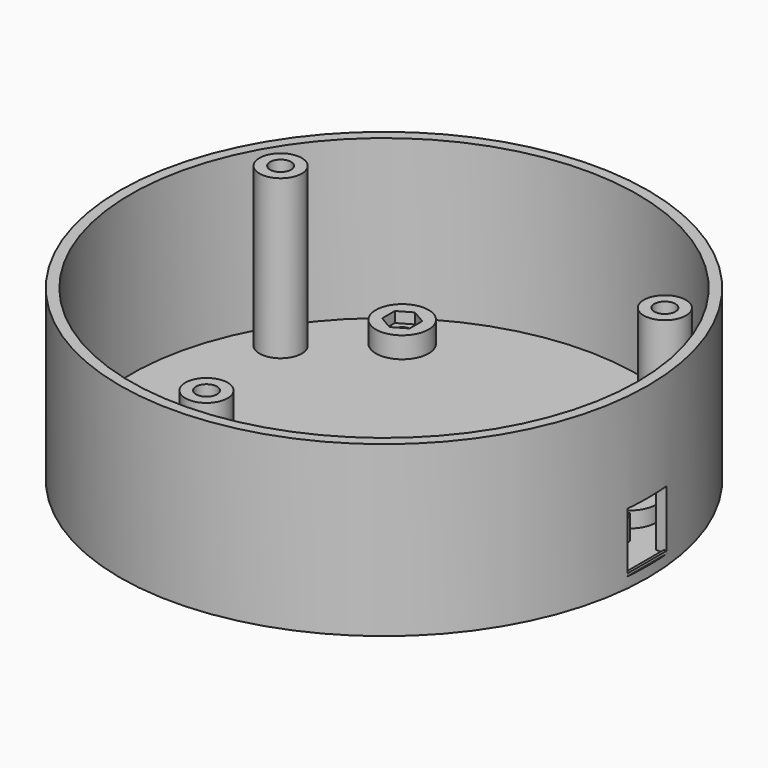
from build123d import *

# Parameters (mm, degrees)
SKETCH_R        = 50
PAD_DEPTH       = 32
SKETCH001_R     = 48
POCKET_DEPTH    = 30
SKETCH002_R     = 4
PAD001_DEPTH    = 30
SKETCH005_W     = 9.3
SKETCH005_H     = 11.3
POCKET001_DEPTH = 10
SKETCH006_W     = 6
SKETCH006_H     = 9
PAD004_DEPTH    = 10
POCKET002_DEPTH = 8
SKETCH009_R     = 5
PAD006_DEPTH    = 4
SKETCH011_W     = 0.5
SKETCH011_H     = 9.3
PAD007_DEPTH    = 0.5
SKETCH012_R     = 5
PAD008_DEPTH    = 3
POCKET004_DEPTH = 2
SKETCH014_R     = 1.5
POCKET005_DEPTH = 4
POCKET006_DEPTH = 2
SKETCH015_R     = 1.5
POCKET007_DEPTH = 5
SKETCH016_R     = 2
POCKET008_DEPTH = 5.8


with BuildPart() as part:
    # Sketch → Pad (new body)
    with BuildSketch(Plane.XY):
        Circle(SKETCH_R)
    extrude(amount=PAD_DEPTH)

    # Sketch001 (on DatumPlane) → Pocket (cut)
    with BuildSketch(Plane.XY.offset(32)):
        Circle(SKETCH001_R)
    extrude(amount=-POCKET_DEPTH, mode=Mode.SUBTRACT)

    # Sketch002 (on DatumPlane) → Pad001 (join)
    with BuildSketch(Plane.XY.offset(32)):
        with Locations((-36.373067, 21)):
            Circle(SKETCH002_R)
        with Locations((0, -42)):
            Circle(SKETCH002_R)
        with Locations((36.373067, 21)):
            Circle(SKETCH002_R)
    extrude(amount=-PAD001_DEPTH)

    # Sketch005 (on DatumPlane) → Pocket001 (cut)
    with BuildSketch(Plane.YZ.offset(50)):
        with Locations((0, 7.65)):
            Rectangle(SKETCH005_W, SKETCH005_H)
    extrude(amount=-POCKET001_DEPTH, mode=Mode.SUBTRACT)

    # Sketch006 (on DatumPlane) → Pad004 (join)
    with BuildSketch(Plane.XY.offset(2)):
        with Locations((40, 0)):
            Rectangle(SKETCH006_W, SKETCH006_H)
    extrude(amount=PAD004_DEPTH)

    # Sketch007 (on Face14 of Pad004) → Pocket002 (cut)
    with BuildSketch(Plane(origin=(37, 0, 0), x_dir=(0, -1, 0), z_dir=(-1, 0, 0))):
        with BuildLine():
            ThreePointArc((-3.99875, 6.6), (0, 2.7), (3.99875, 6.6))
            Line((5.575286, 6.6), (3.99875, 6.6))
            Line((5.575286, 15.969053), (5.575286, 6.6))
            Line((-6.906295, 15.969053), (5.575286, 15.969053))
            Line((-6.906295, 6.6), (-6.906295, 15.969053))
            Line((-3.99875, 6.6), (-6.906295, 6.6))
        make_face()
    extrude(amount=-POCKET002_DEPTH, mode=Mode.SUBTRACT)

    # Sketch009 (on DatumPlane) → Pad006 (join)
    with BuildSketch(Plane.XY.offset(2)):
        with Locations((-22.75, 32.75)):
            Circle(SKETCH009_R)
        with Locations((22.75, 32.75)):
            Circle(SKETCH009_R)
        with Locations((22.75, -32.75)):
            Circle(SKETCH009_R)
        with Locations((-22.75, -32.75)):
            Circle(SKETCH009_R)
    extrude(amount=PAD006_DEPTH)

    # Sketch011 (on DatumPlane) → Pad007 (join)
    with BuildSketch(Plane.XY.offset(2)):
        with Locations((49.533305, 0)):
            Rectangle(SKETCH011_W, SKETCH011_H)
    extrude(amount=PAD007_DEPTH)

    # Sketch012 (on DatumPlane) → Pad008 (join)
    with BuildSketch(Plane.XY.offset(2)):
        with Locations((37.35, -11.5)):
            Circle(SKETCH012_R)
    pad008 = extrude(amount=PAD008_DEPTH)

    # Sketch013 (on Face33 of Pad008) → Pocket004 (cut)
    with BuildSketch(Plane.XY.offset(5)):
        Polygon((39.95, -13.001111), (39.95, -9.998889), (37.35, -8.497779), (34.75, -9.998889), (34.75, -13.001111), (37.35, -14.502221), align=None)
    pocket004 = extrude(amount=-POCKET004_DEPTH, mode=Mode.SUBTRACT)

    # Sketch014 (on Face33 of Pocket004) → Pocket005 (cut)
    with BuildSketch(Plane.XY.offset(5)):
        with Locations((37.35, -11.5)):
            Circle(SKETCH014_R)
    pocket005 = extrude(amount=-POCKET005_DEPTH, mode=Mode.SUBTRACT)

    # Sketch010 (on DatumPlane) → Pocket006 (cut)
    with BuildSketch(Plane.XY.offset(6)):
        Polygon((-20.15, 31.248889), (-20.15, 34.251111), (-22.75, 35.752221), (-25.35, 34.251111), (-25.35, 31.248889), (-22.75, 29.747779), align=None)
        Polygon((25.35, -34.251111), (25.35, -31.248889), (22.75, -29.747779), (20.15, -31.248889), (20.15, -34.251111), (22.75, -35.752221), align=None)
        Polygon((22.75, 35.752221), (20.15, 34.251111), (20.15, 31.248889), (22.75, 29.747779), (25.35, 31.248889), (25.35, 34.251111), align=None)
        Polygon((-20.15, -31.248889), (-22.75, -29.747779), (-25.35, -31.248889), (-25.35, -34.251111), (-22.75, -35.752221), (-20.15, -34.251111), align=None)
    extrude(amount=-POCKET006_DEPTH, mode=Mode.SUBTRACT)

    # Sketch015 (on DatumPlane) → Pocket007 (cut)
    with BuildSketch(Plane.XY.offset(6)):
        with Locations((-22.75, 32.75)):
            Circle(SKETCH015_R)
        with Locations((22.75, 32.75)):
            Circle(SKETCH015_R)
        with Locations((22.7, -32.75)):
            Circle(SKETCH015_R)
        with Locations((-22.75, -32.75)):
            Circle(SKETCH015_R)
    extrude(amount=-POCKET007_DEPTH, mode=Mode.SUBTRACT)

    # Sketch016 (on DatumPlane) → Pocket008 (cut)
    with BuildSketch(Plane.XY.offset(32)):
        with Locations((-36.373067, 21)):
            Circle(SKETCH016_R)
        with Locations((36.373067, 21)):
            Circle(SKETCH016_R)
        with Locations((0, -42)):
            Circle(SKETCH016_R)
    extrude(amount=-POCKET008_DEPTH, mode=Mode.SUBTRACT)

    # Mirrored: Pad008, Pocket004, Pocket005 across Sketch012 H_Axis
    add(pad008.mirror(Plane(origin=(0, 0, 2), x_dir=(0, 0, 1), z_dir=(0, 1, 0))))
    add(pocket004.mirror(Plane(origin=(0, 0, 2), x_dir=(0, 0, 1), z_dir=(0, 1, 0))), mode=Mode.SUBTRACT)
    add(pocket005.mirror(Plane(origin=(0, 0, 2), x_dir=(0, 0, 1), z_dir=(0, 1, 0))), mode=Mode.SUBTRACT)


solid = part.part
